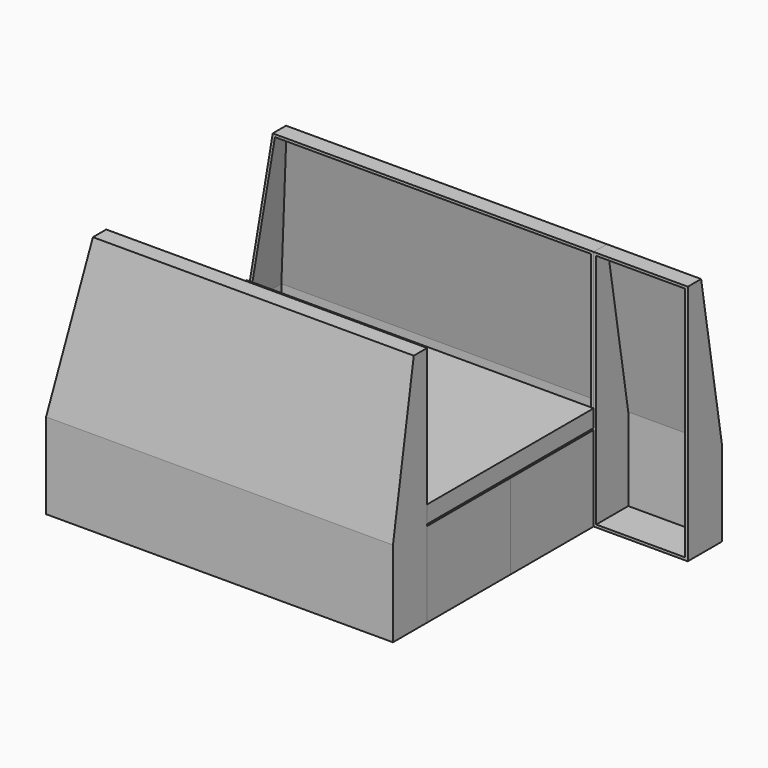
from build123d import *

# Parameters (mm, degrees)
F2_W       = 1000
F2_H       = 600
F3_DEPTH   = 600
F2_W_2     = 2000
F2_H_2     = 246
F4_DEPTH   = 1394
F5_DEPTH   = 500
F2_W_3     = 543
F6_DEPTH   = 1394
F7_SIZE2   = 900
F7_SIZE    = 150
F8_SIZE2   = 150
F8_SIZE    = 900
F8_2_SIZE2 = 150
F8_2_SIZE  = 900
F9_DEPTH   = 490
F10_DEPTH  = 490
F11_T      = -15
F11_2_T    = -15
F11_3_T    = -15
F11_4_T    = -15
F11_5_T    = -15


with BuildPart() as f3:
    # F2 (on Top) → F3 (new body)
    with BuildSketch(Plane.XY):
        Polygon((528.5, 600), (-1471.5, 600), (-1471.5, 0), (-471.5, 0), (528.5, 0), align=None)
        with Locations((-971.5, -300)):
            Rectangle(F2_W, F2_H)
        with Locations((28.5, -300)):
            Rectangle(F2_W, F2_H)
        Polygon((528.5, 600), (-1471.5, 600), (-1471.5, 0), (-471.5, 0), (528.5, 0), align=None)
    extrude(amount=F3_DEPTH)

    # F2 (on Top) → F5 (cut)
    with BuildSketch(Plane.XY):
        with Locations((-971.5, -300)):
            Rectangle(F2_W, F2_H)
        with Locations((28.5, -300)):
            Rectangle(F2_W, F2_H)
        Polygon((528.5, 600), (-1471.5, 600), (-1471.5, 0), (-471.5, 0), (528.5, 0), align=None)
    extrude(amount=F5_DEPTH, mode=Mode.SUBTRACT)


with BuildPart() as f4:
    # F2 (on Top) → F4 (new body)
    with BuildSketch(Plane.XY):
        with Locations((-471.5, 723)):
            Rectangle(F2_W_2, F2_H_2)
    extrude(amount=F4_DEPTH)

    # F8
    f8_edges = [f4.edges().sort_by_distance(p)[0] for p in [
        (-471.5, 846, 1394),
        (-1471.5, 723, 1394),
    ]]
    chamfer(f8_edges, length=F8_SIZE, length2=F8_SIZE2)

    # F11#4
    f11_4_openings = [f4.faces().sort_by_distance(p)[0] for p in [
        (-447.928965, 600, 687.149789),
    ]]
    offset(amount=F11_4_T, openings=f11_4_openings)


with BuildPart() as f4b:
    # F2 (on Top) → F4, piece 2 (new body)
    with BuildSketch(Plane.XY):
        with Locations((-971.5, -723)):
            Rectangle(F2_W, F2_H_2)
        with Locations((28.5, -723)):
            Rectangle(F2_W, F2_H_2)
    extrude(amount=F4_DEPTH)

    # F7
    f7_edges = [f4b.edges().sort_by_distance(p)[0] for p in [
        (-471.5, -846, 1394),
        (-1471.5, -723, 1394),
    ]]
    f7_side = f4b.faces().sort_by_distance((-471.5, -723, 1394))[0]
    chamfer(f7_edges, length=F7_SIZE, length2=F7_SIZE2, reference=f7_side)

    # F11#3
    f11_3_openings = [f4b.faces().sort_by_distance(p)[0] for p in [
        (-447.928965, -600, 687.149789),
    ]]
    offset(amount=F11_3_T, openings=f11_3_openings)


with BuildPart() as f6:
    # F2 (on Top) → F6 (new body)
    with BuildSketch(Plane.XY):
        with Locations((800, 723)):
            Rectangle(F2_W_3, F2_H_2)
    extrude(amount=F6_DEPTH)

    # F8#2
    f8_2_edges = [f6.edges().sort_by_distance(p)[0] for p in [
        (800, 846, 1394),
    ]]
    chamfer(f8_2_edges, length=F8_2_SIZE, length2=F8_2_SIZE2)

    # F11#5
    f11_5_openings = [f6.faces().sort_by_distance(p)[0] for p in [
        (800, 600, 697),
    ]]
    offset(amount=F11_5_T, openings=f11_5_openings)


with BuildPart() as f9:
    # F2 (on Top) → F9 (new body)
    with BuildSketch(Plane.XY):
        with Locations((28.5, -300)):
            Rectangle(F2_W, F2_H)
    extrude(amount=F9_DEPTH)

    # F11#2
    f11_2_openings = [f9.faces().sort_by_distance(p)[0] for p in [
        (28.5, -300, 490),
    ]]
    offset(amount=F11_2_T, openings=f11_2_openings)


with BuildPart() as f10:
    # F2 (on Top) → F10 (new body)
    with BuildSketch(Plane.XY):
        Polygon((528.5, 600), (-1471.5, 600), (-1471.5, 0), (-471.5, 0), (528.5, 0), align=None)
    extrude(amount=F10_DEPTH)

    # F11
    f11_openings = [f10.faces().sort_by_distance(p)[0] for p in [
        (-471.5, 300, 490),
    ]]
    offset(amount=F11_T, openings=f11_openings)


solid = Compound([f3.part, f4.part, f4b.part, f6.part, f9.part, f10.part])
